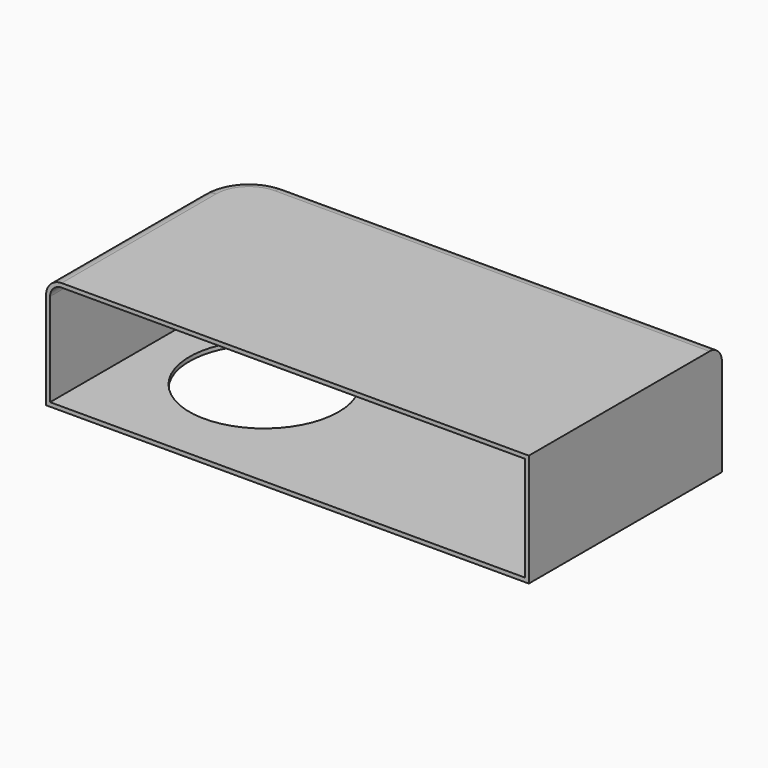
from build123d import *

# Parameters (mm, degrees)
F0_W     = 300
F0_H     = 150
F1_DEPTH = 35
F2_R     = 30
F3_R     = 9.6568542495
F4_T     = -2.5
F5_R     = 46.3829958517
F6_DEPTH = 14


with BuildPart() as f1:
    # F0 (on Top) → F1 (new body, symmetric)
    with BuildSketch(Plane.XY):
        with Locations((1.3466058194, -4.4853053987)):
            Rectangle(F0_W, F0_H)
    extrude(amount=F1_DEPTH, both=True)

    # F2
    f2_edges = [f1.edges().sort_by_distance(p)[0] for p in [
        (-148.653394, 70.514695, 0),
    ]]
    fillet(f2_edges, radius=F2_R)

    # F3
    f3_edges = [f1.edges().sort_by_distance(p)[0] for p in [
        (16.346606, 70.514695, 35),
    ]]
    fillet(f3_edges, radius=F3_R)

    # F4
    f4_openings = [f1.faces().sort_by_distance(p)[0] for p in [
        (1.487632, -79.485305, -0.031329),
    ]]
    offset(amount=F4_T, openings=f4_openings)

    # F5 (on face) → F6 (cut)
    with BuildSketch(Plane(origin=(0, 0, -35), x_dir=(1, 0, 0), z_dir=(0, 0, -1))):
        with Locations((-76.8001675606, 0)):
            Circle(F5_R)
    extrude(amount=-F6_DEPTH, mode=Mode.SUBTRACT)


solid = f1.part
